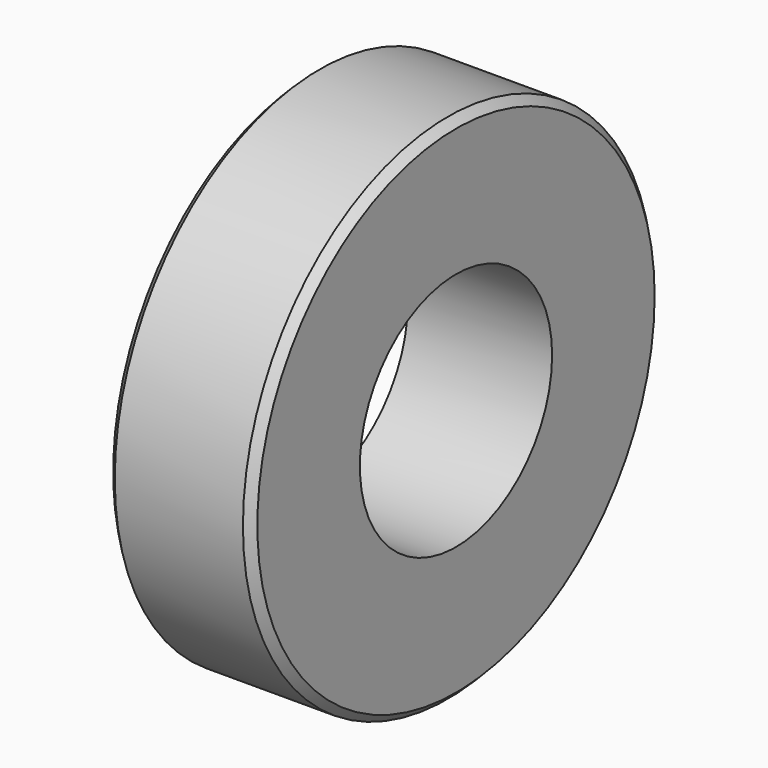
from build123d import *

# Parameters (mm, degrees)
F0_R     = 16
F1_DEPTH = 9
F2_R     = 7.5
F3_DEPTH = 9.001
F4_SIZE  = 0.5


with BuildPart() as f1:
    # F0 (on Right) → F1 (new body)
    with BuildSketch(Plane.YZ):
        Circle(F0_R)
    extrude(amount=-F1_DEPTH)

    # F2 (on face) → F3 (cut, through all)
    with BuildSketch(Plane.YZ):
        Circle(F2_R)
    extrude(amount=-F3_DEPTH, mode=Mode.SUBTRACT)

    # F4
    f4_edges = [f1.edges().sort_by_distance(p)[0] for p in [
        (-4.5, 16, 0),
        (0, -16, 0),
        (-9, -16, 0),
    ]]
    chamfer(f4_edges, length=F4_SIZE)


solid = f1.part
